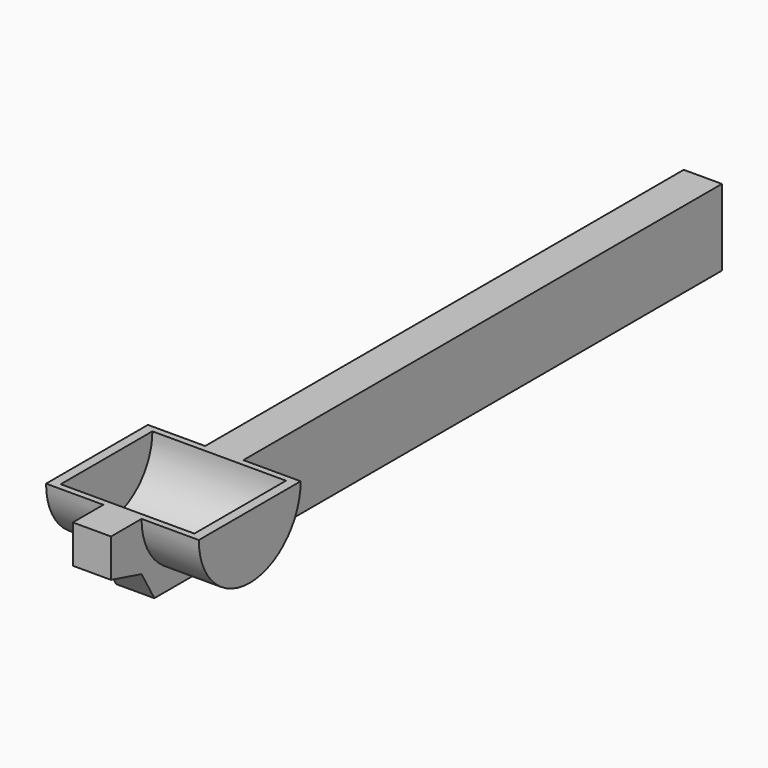
from build123d import *

# Parameters (mm, degrees)
F0_W     = 19.05
F0_H     = 38.1
F1_DEPTH = 190.5
F3_DEPTH = 38.1
F6_W     = 66.675
F6_H     = 28.575
F9_DEPTH = 47.626


with BuildPart() as f1:
    # F0 (on Front) → F1 (new body, symmetric)
    with BuildSketch(Plane.XZ):
        Rectangle(F0_W, F0_H)
    extrude(amount=F1_DEPTH, both=True)

    # F2 (on Right) → F3 (join, symmetric)
    with BuildSketch(Plane.YZ):
        with BuildLine():
            Line((-107.95, 19.05), (-171.45, 19.05))
            ThreePointArc((-171.45, 19.05), (-139.7, -12.7), (-107.95, 19.05))
        make_face()
    extrude(amount=F3_DEPTH, both=True)

    # F6 (on face) → F7 (revolve, cut)
    with BuildSketch(Plane.XY.offset(19.05)):
        with Locations((0, -125.4125)):
            Rectangle(F6_W, F6_H)
    revolve(axis=Axis((58.379408, -139.7, 19.05), (1, 0, 0)), mode=Mode.SUBTRACT)

    # F8 (on face) → F9 (cut, through all)
    with BuildSketch(Plane.YZ.offset(9.525)):
        Polygon((-171.45, -5.197727), (-190.5, 0), (-190.5, -19.05), (-163.452387, -19.05), align=None)
    extrude(amount=-F9_DEPTH, mode=Mode.SUBTRACT)


solid = f1.part
